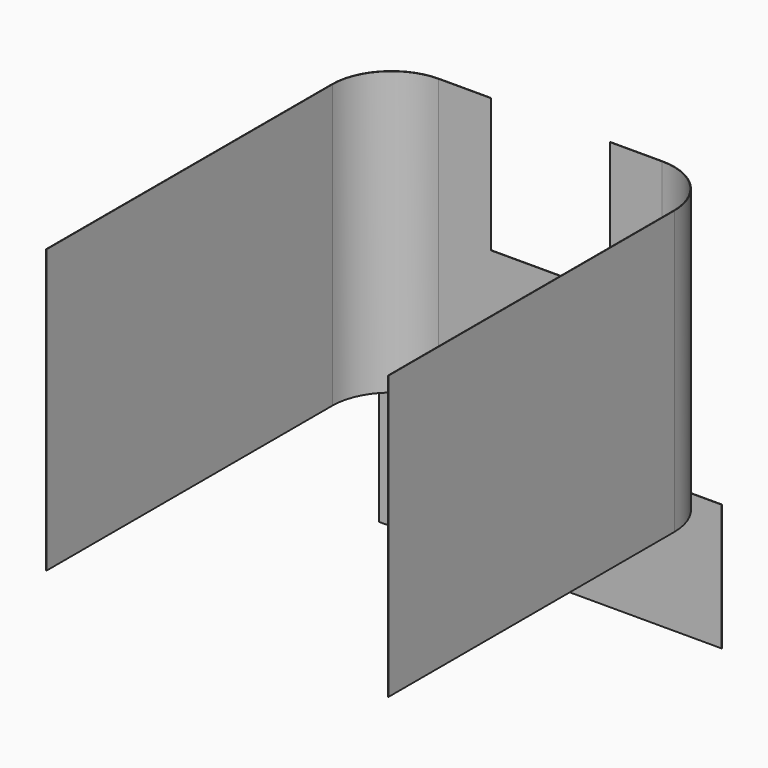
from build123d import *

# Parameters (mm, degrees)
F1_DEPTH = 380
F2_W     = 80
F2_H     = 180
F2_H_2   = 115.651754
F3_DEPTH = 25.4
F4_W     = 230
F4_H     = 170
F5_DEPTH = 0.6


with BuildPart() as f1:
    # F0 (on Top) → F1 (new body)
    with BuildSketch(Plane.XY):
        with BuildLine():
            Line((150, 0), (0, 0))
            Line((0, 0), (-150, 0))
            ThreePointArc((-150, 0), (-206.568542, -23.431458), (-230, -80))
            Line((-230, -80), (-230, -560))
            Line((-230, -560), (-229.4, -560))
            Line((-229.4, -560), (-229.4, -80))
            ThreePointArc((-229.4, -80), (-206.144278, -23.855722), (-150, -0.6))
            Line((-150, -0.6), (0, -0.6))
            Line((0, -0.6), (150, -0.6))
            ThreePointArc((150, -0.6), (206.144278, -23.855722), (229.4, -80))
            Line((229.4, -80), (229.4, -560))
            Line((229.4, -560), (230, -560))
            Line((230, -560), (230, -80))
            ThreePointArc((230, -80), (206.568542, -23.431458), (150, 0))
        make_face()
    extrude(amount=F1_DEPTH)

    # F2 (on face) → F3 (cut)
    with BuildSketch(Plane.XZ.offset(0.6)):
        with Locations((-40, 290)):
            Rectangle(F2_W, F2_H)
        with Locations((40, 290)):
            Rectangle(F2_W, F2_H)
        with Locations((40, 437.825877)):
            Rectangle(F2_W, F2_H_2)
        with Locations((-40, 437.825877)):
            Rectangle(F2_W, F2_H_2)
    extrude(amount=-F3_DEPTH, mode=Mode.SUBTRACT)

    # F4 (on Front) → F5 (join)
    with BuildSketch(Plane.XZ):
        with Locations((115, -85)):
            Rectangle(F4_W, F4_H)
        with Locations((-115, -85)):
            Rectangle(F4_W, F4_H)
    extrude(amount=F5_DEPTH)


solid = f1.part
